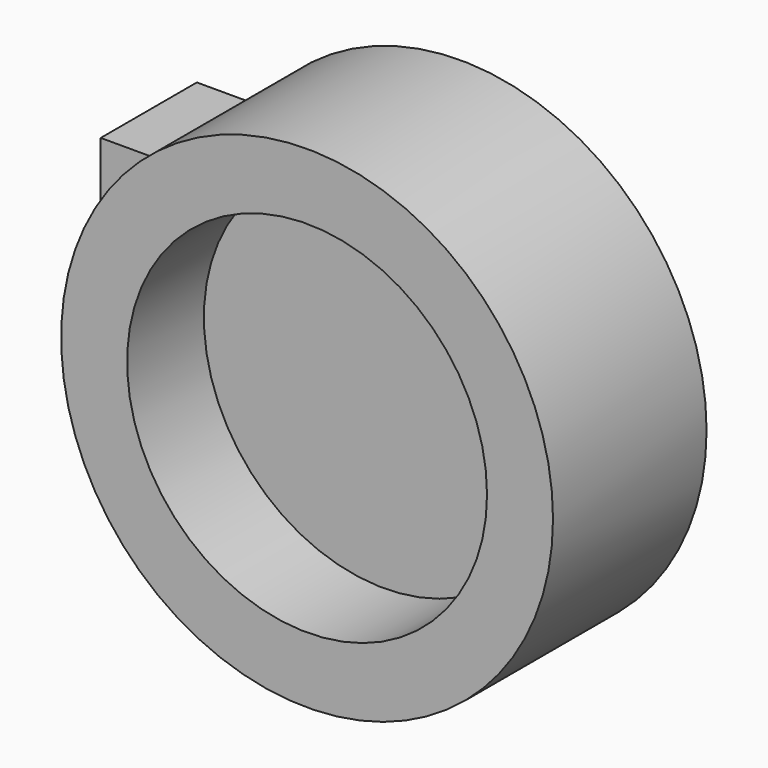
from build123d import *

# Parameters (mm, degrees)
F0_R     = 5.207
F0_R_2   = 3.81
F1_DEPTH = 4.064
F2_DEPTH = 2.032
F3_R     = 0.4953
F4_DEPTH = 0.508
F5_DEPTH = 7.62


with BuildPart() as f1:
    # F0 (on Front) → F1 (new body)
    with BuildSketch(Plane.XZ):
        Circle(F0_R)
        Circle(F0_R_2, mode=Mode.SUBTRACT)
    extrude(amount=F1_DEPTH)


with BuildPart() as f2:
    # F0 (on Front) → F2 (new body)
    with BuildSketch(Plane.XZ):
        Circle(F0_R_2)
    extrude(amount=F2_DEPTH)


with BuildPart() as f4:
    # F3 (on Right) → F4 (new body)
    with BuildSketch(Plane.YZ):
        with Locations((1.268141, 0)):
            Circle(F3_R)
    extrude(amount=-F4_DEPTH)


with BuildPart() as f5:
    # F3 (on Right) → F5 (new body)
    with BuildSketch(Plane.YZ):
        Polygon((0, 1.279791), (0, 0), (0, -1.271651), (2.543863, -1.271651), (2.543863, 1.279791), align=None)
        with Locations((1.268141, 0)):
            Circle(F3_R, mode=Mode.SUBTRACT)
    extrude(amount=-F5_DEPTH)


solid = Compound([f1.part, f2.part, f4.part, f5.part])
